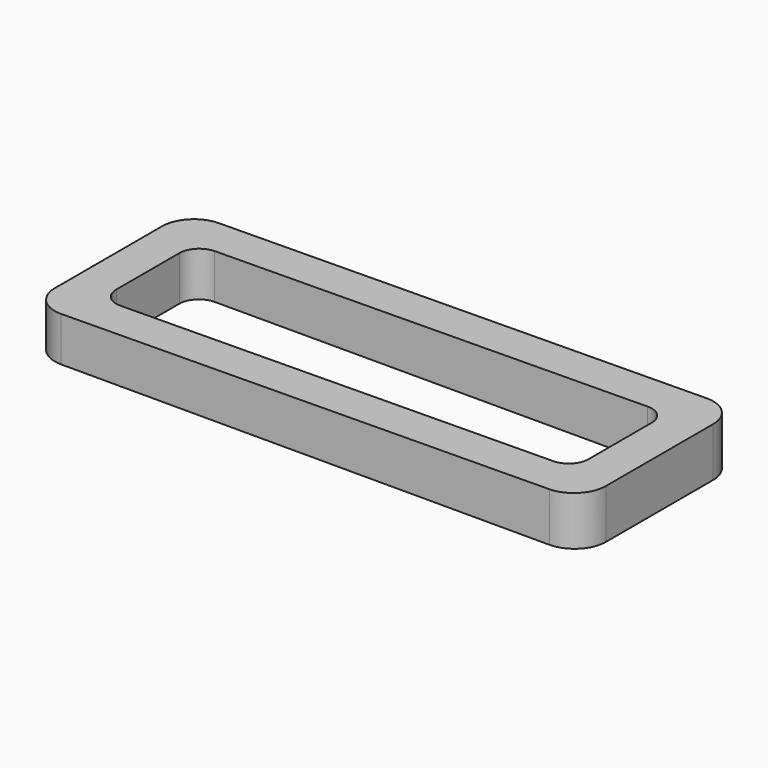
from build123d import *

# Parameters (mm, degrees)
F3_DEPTH = 31.75
F5_DEPTH = 7.9385
F6_R     = 5.08


with BuildPart() as f3:
    # F1 (on Front) → F3 (new body)
    with BuildSketch(Plane.XZ):
        Polygon((609.6, 0), (609.6, 7.9375), (520.7, 7.127214), (520.7, 0), align=None)
    extrude(amount=F3_DEPTH)

    # F4 (on face) → F5 (cut, through all)
    with BuildSketch(Plane(origin=(0, 0, 0), x_dir=(1, 0, 0), z_dir=(0, 0, -1))):
        with BuildLine():
            Line((600.075, 25.4), (530.225, 25.4))
            ThreePointArc((530.225, 25.4), (527.979936, 24.470064), (527.05, 22.225))
            Line((527.05, 22.225), (527.05, 9.525))
            ThreePointArc((527.05, 9.525), (527.979936, 7.279936), (530.225, 6.35))
            Line((530.225, 6.35), (600.075, 6.35))
            ThreePointArc((600.075, 6.35), (602.320064, 7.279936), (603.25, 9.525))
            Line((603.25, 9.525), (603.25, 22.225))
            ThreePointArc((603.25, 22.225), (602.320064, 24.470064), (600.075, 25.4))
        make_face()
    extrude(amount=-F5_DEPTH, mode=Mode.SUBTRACT)

    # F6
    f6_edges = [f3.edges().sort_by_distance(p)[0] for p in [
        (520.7, -31.75, 3.563607),
        (520.7, 0, 3.563607),
        (609.6, -31.75, 3.96875),
        (609.6, 0, 3.96875),
    ]]
    fillet(f6_edges, radius=F6_R)


solid = f3.part
